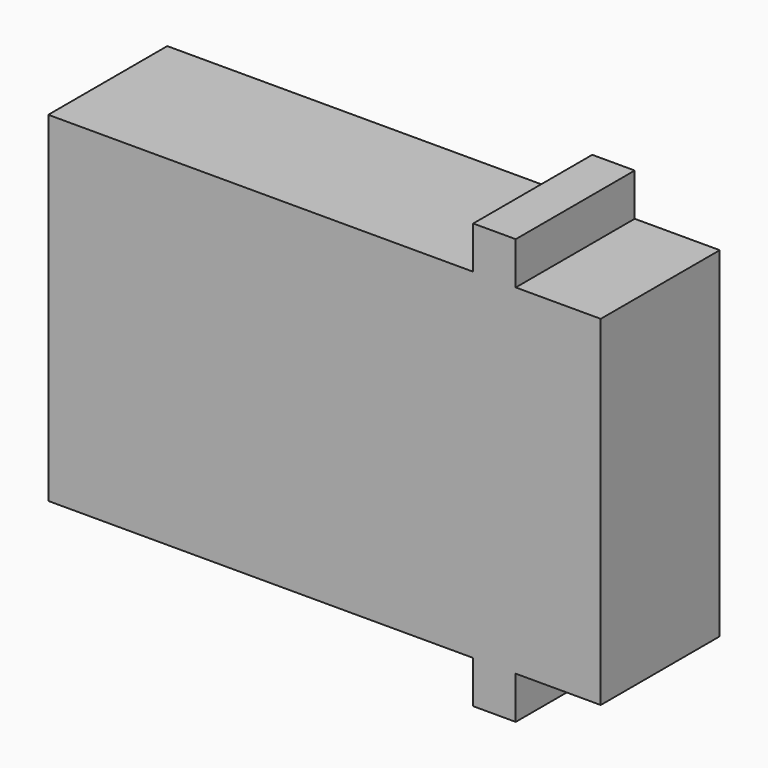
from build123d import *

# Parameters (mm, degrees)
F0_W     = 31.75
F0_H     = 25.4
F1_DEPTH = 11.1125
F2_W     = 11.1125
F2_H     = 31.75
F3_DEPTH = 3.175
F4_W     = 11.1125
F4_H     = 25.4
F5_DEPTH = 6.35


with BuildPart() as f1:
    # F0 (on Front) → F1 (new body)
    with BuildSketch(Plane.XZ):
        with Locations((-13.603202, -30.109987)):
            Rectangle(F0_W, F0_H)
    extrude(amount=F1_DEPTH)

    # F2 (on face) → F3 (join)
    with BuildSketch(Plane.YZ.offset(2.271798)):
        with Locations((-5.55625, -30.109987)):
            Rectangle(F2_W, F2_H)
    extrude(amount=F3_DEPTH)

    # F4 (on face) → F5 (join)
    with BuildSketch(Plane.YZ.offset(5.446798)):
        with Locations((-5.55625, -30.109987)):
            Rectangle(F4_W, F4_H)
    extrude(amount=F5_DEPTH)


solid = f1.part
